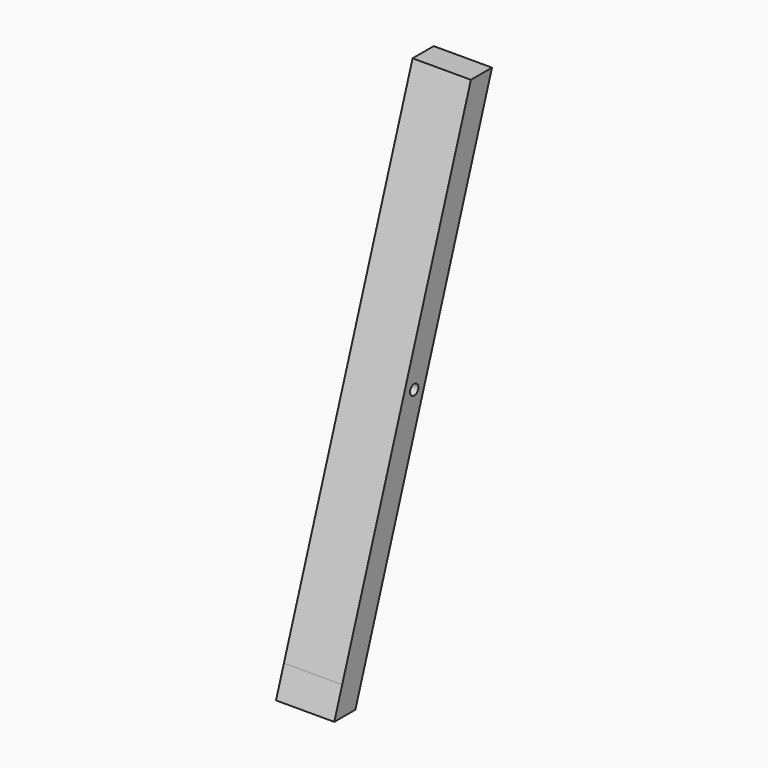
from build123d import *

# Parameters (mm, degrees)
F1_DEPTH       = 44.45
F1_DEPTH_BACK  = 44.45
F3_D           = 9.525
F3_DEPTH       = 31.75
F3_CBORE_D     = 15.875
F3_CBORE_DEPTH = 25.4
F5_D           = 9.525
F5_CBORE_D     = 15.875
F5_CBORE_DEPTH = 12.7


with BuildPart() as f1:
    # F0 (on Right) → F1 (new body, two sides)
    with BuildSketch(Plane.YZ) as f1_sk:
        Polygon((-253.798136, -744.067323), (-4.154652, -19.05), (-44.45, -19.05), (-289.822394, -731.663176), align=None)
        Polygon((-264.641732, -775.559412), (-253.798136, -744.067323), (-289.822394, -731.663176), (-304.93708, -775.559412), align=None)
    extrude(amount=F1_DEPTH)
    extrude(f1_sk.sketch, amount=-F1_DEPTH_BACK)

    # F3
    with Locations(Plane.YZ.offset(44.45)):
        with Locations((-152.478508, -391.300663)):
            CounterBoreHole(F3_D / 2, F3_CBORE_D / 2, F3_CBORE_DEPTH, depth=F3_DEPTH)

    # F5 (through all)
    with Locations(Plane(origin=(-44.45, 0, 0), x_dir=(0, -1, 0), z_dir=(-1, 0, 0))):
        with Locations((152.478508, -391.300663)):
            CounterBoreHole(F5_D / 2, F5_CBORE_D / 2, F5_CBORE_DEPTH)


solid = f1.part
